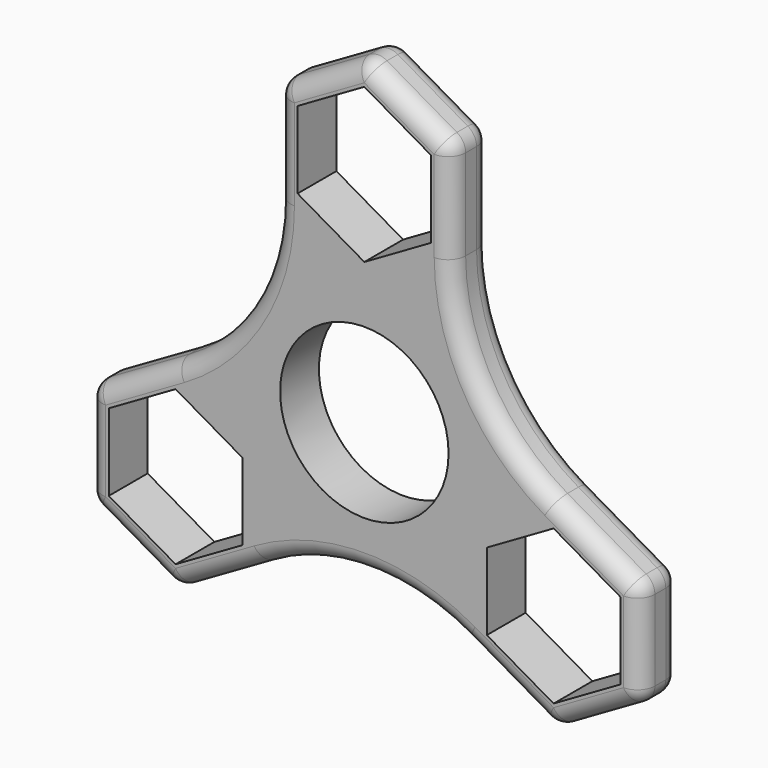
from build123d import *

# Parameters (mm, degrees)
F0_R     = 14.2875
F0_R_2   = 11.0236
F1_DEPTH = 6.35
F2_R     = 2.286


with BuildPart() as f1:
    # F0 (on Front) → F1 (new body)
    with BuildSketch(Plane.XZ):
        Polygon((-11.43, 35.174114), (-11.43, 21.975886), (0, 15.376773), (11.43, 21.975886), (11.43, 35.174114), (0, 41.773227), align=None)
        Polygon((0, 18.485689), (-8.7376, 23.530344), (-8.7376, 33.619656), (0, 38.664311), (8.7376, 33.619656), (8.7376, 23.530344), align=None, mode=Mode.SUBTRACT)
        with BuildLine():
            Line((0, 15.376773), (-11.43, 21.975886))
            ThreePointArc((-11.43, 21.975886), (-14.966436, 8.660036), (-24.701385, -1.089272))
            Line((-24.701385, -1.089272), (-13.271385, -7.688386))
            Line((-13.271385, -7.688386), (-13.271385, -20.886613))
            ThreePointArc((-13.271385, -20.886613), (0.028698, -17.291331), (13.339321, -20.84739))
            Line((13.339321, -20.84739), (13.339321, -7.649163))
            Line((13.339321, -7.649163), (24.769321, -1.050049))
            ThreePointArc((24.769321, -1.050049), (15.023862, 8.681056), (11.43, 21.975886))
            Line((11.43, 21.975886), (0, 15.376773))
        make_face()
        Circle(F0_R, mode=Mode.SUBTRACT)
        Polygon((-13.271385, -7.688386), (-24.701385, -1.089272), (-36.131385, -7.688386), (-36.131385, -20.886613), (-24.701385, -27.485727), (-13.271385, -20.886613), align=None)
        Polygon((-24.701385, -24.376811), (-33.438985, -19.332155), (-33.438985, -9.242844), (-24.701385, -4.198188), (-15.963785, -9.242844), (-15.963785, -19.332155), align=None, mode=Mode.SUBTRACT)
        Polygon((36.199321, -7.649163), (24.769321, -1.050049), (13.339321, -7.649163), (13.339321, -20.84739), (24.769321, -27.446504), (36.199321, -20.84739), align=None)
        Polygon((33.506921, -9.203621), (33.506921, -19.292932), (24.769321, -24.337588), (16.031721, -19.292932), (16.031721, -9.203621), (24.769321, -4.158965), align=None, mode=Mode.SUBTRACT)
        Circle(F0_R)
        Circle(F0_R_2, mode=Mode.SUBTRACT)
    extrude(amount=F1_DEPTH)

    # F2
    f2_edges = [f1.edges().sort_by_distance(p)[0] for p in [
        (0.028698, -6.35, -17.291331),
        (30.484321, -6.35, -24.146947),
        (36.199321, -6.35, -14.248276),
        (15.023862, -6.35, 8.681056),
        (11.43, -6.35, 28.575),
        (5.715, -6.35, 38.47367),
        (-5.715, -6.35, 38.47367),
        (-11.43, -6.35, 28.575),
        (-14.966436, -6.35, 8.660036),
        (-36.131385, -6.35, -14.2875),
        (-30.416385, -6.35, -24.18617),
        (-18.986385, -6.35, -24.18617),
        (-36.131385, 0, -14.2875),
        (-30.416385, 0, -4.388829),
        (-11.43, 0, 28.575),
        (-5.715, 0, 38.47367),
        (5.715, 0, 38.47367),
        (30.484321, -6.35, -4.349606),
        (11.43, 0, 28.575),
        (15.023862, 0, 8.681056),
        (0.028698, 0, -17.291331),
        (30.484321, 0, -24.146947),
        (19.054321, 0, -24.146947),
        (-30.416385, -6.35, -4.388829),
        (19.054321, -6.35, -24.146947),
        (-30.416385, 0, -24.18617),
        (36.199321, 0, -14.248276),
        (-14.966436, 0, 8.660036),
        (30.484321, 0, -4.349606),
        (-18.986385, 0, -24.18617),
        (0, -3.175, 41.773227),
        (-11.43, -3.175, 35.174114),
        (-11.43, -3.175, 21.975886),
        (-36.131385, -3.175, -7.688386),
        (-36.131385, -3.175, -20.886613),
        (-24.701385, -3.175, -27.485727),
        (24.769321, -3.175, -27.446504),
        (36.199321, -3.175, -20.84739),
        (36.199321, -3.175, -7.649163),
        (11.43, -3.175, 35.174114),
    ]]
    fillet(f2_edges, radius=F2_R)


solid = f1.part
